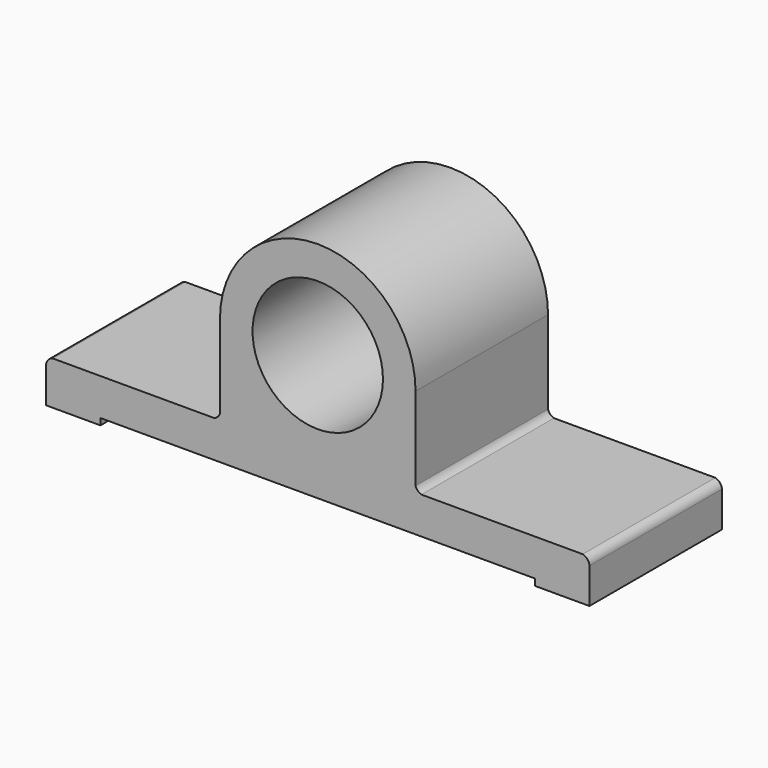
from build123d import *

# Parameters (mm, degrees)
F0_R     = 30
F1_DEPTH = 76.2


with BuildPart() as f1:
    # F0 (on Front) → F1 (new body)
    with BuildSketch(Plane.XZ):
        with BuildLine():
            Line((45, 2.903346), (45, 41.171368))
            ThreePointArc((45, 41.171368), (0, 86.171368), (-45, 41.171368))
            Line((-45, 41.171368), (-45, 2.903346))
            ThreePointArc((-45, 2.903346), (-46.008278, 1.202846), (-47.707793, 0.192909))
            Line((-47.707793, 0.192909), (-121.913321, 0.192909))
            ThreePointArc((-121.913321, 0.192909), (-124.058806, -1.116044), (-125, -3.446413))
            Line((-125, -3.446413), (-125, -19.807091))
            Line((-125, -19.807091), (-100, -19.807091))
            Line((-100, -19.807091), (-100, -16.807091))
            Line((-100, -16.807091), (0, -16.807091))
            Line((0, -16.807091), (100, -16.807091))
            Line((100, -16.807091), (100, -19.807091))
            Line((100, -19.807091), (125, -19.807091))
            Line((125, -19.807091), (125, -3.446413))
            ThreePointArc((125, -3.446413), (124.058806, -1.116044), (121.913321, 0.192909))
            Line((121.913321, 0.192909), (47.707793, 0.192909))
            ThreePointArc((47.707793, 0.192909), (46.008278, 1.202846), (45, 2.903346))
        make_face()
        with Locations((0, 41.171368)):
            Circle(F0_R, mode=Mode.SUBTRACT)
    extrude(amount=-F1_DEPTH)


solid = f1.part
